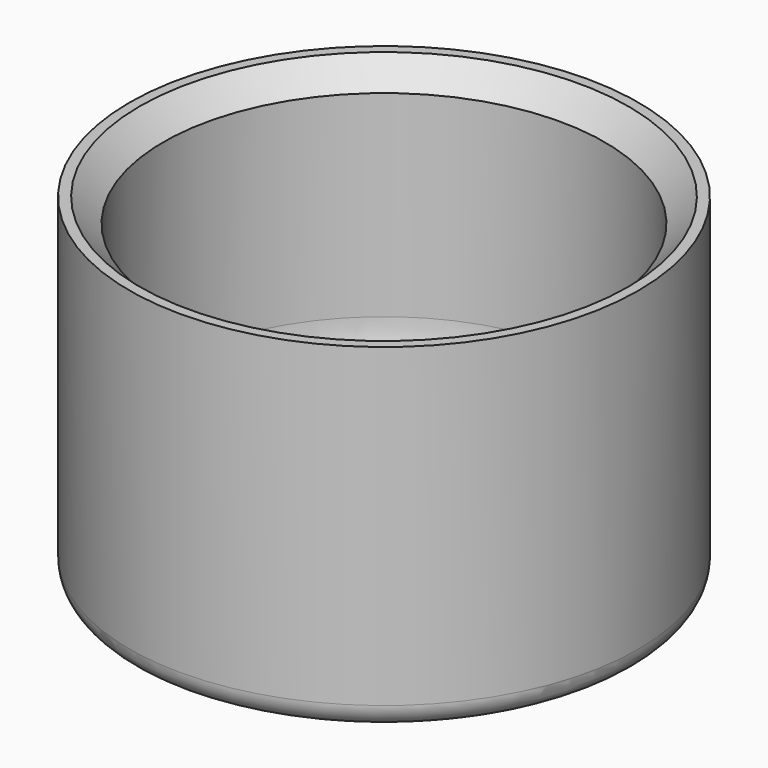
from build123d import *

# Parameters (mm, degrees)
F0_R     = 15
F0_R_2   = 13
F1_DEPTH = 2
F2_DEPTH = 20
F3_R     = 5
F4_SIZE  = 1.4
F5_R     = 1.4


with BuildPart() as f1:
    # F0 (on Top) → F1 (new body)
    with BuildSketch(Plane.XY):
        Circle(F0_R)
        Circle(F0_R_2, mode=Mode.SUBTRACT)
        Circle(F0_R_2)
    extrude(amount=F1_DEPTH)

    # F0 (on Top) → F2 (join)
    with BuildSketch(Plane.XY):
        Circle(F0_R)
        Circle(F0_R_2, mode=Mode.SUBTRACT)
    extrude(amount=F2_DEPTH)

    # F3
    f3_edges = [f1.edges().sort_by_distance(p)[0] for p in [
        (-13, 0, 2),
    ]]
    fillet(f3_edges, radius=F3_R)

    # F4
    f4_edges = [f1.edges().sort_by_distance(p)[0] for p in [
        (-13, 0, 20),
    ]]
    chamfer(f4_edges, length=F4_SIZE)

    # F5
    f5_edges = [f1.edges().sort_by_distance(p)[0] for p in [
        (-15, 0, 0),
    ]]
    fillet(f5_edges, radius=F5_R)


solid = f1.part
